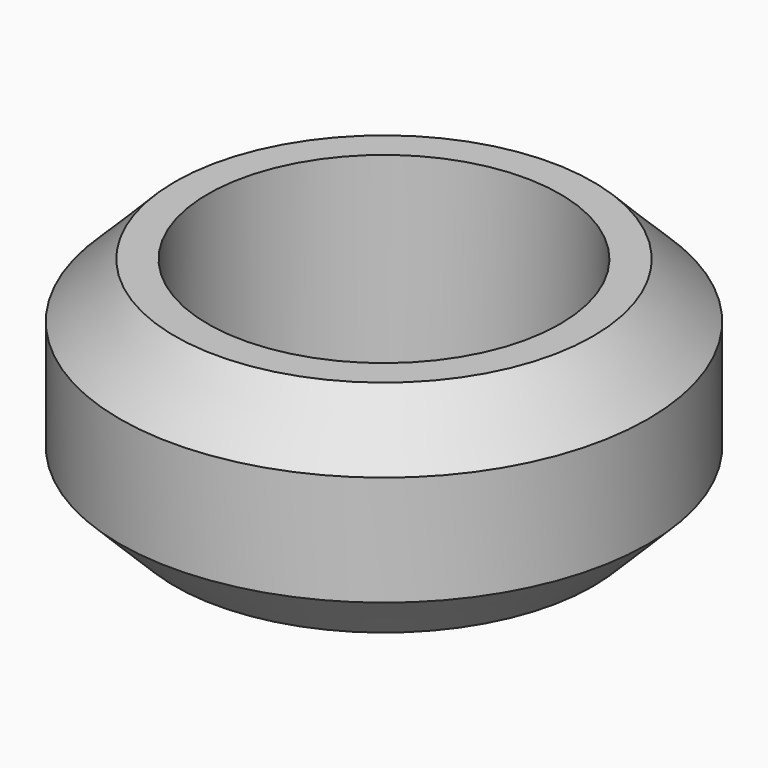
from build123d import *

# Parameters (mm, degrees)
SKETCH_R     = 12
SKETCH_R_2   = 8
PAD_DEPTH    = 10
CHAMFER_SIZE = 2.5


with BuildPart() as part:
    # Sketch → Pad (new body)
    with BuildSketch(Plane.XY):
        Circle(SKETCH_R)
        Circle(SKETCH_R_2, mode=Mode.SUBTRACT)
    extrude(amount=PAD_DEPTH)

    # Chamfer
    chamfer_edges = [part.edges().sort_by_distance(p)[0] for p in [
        (-12, 0, 10),
        (-12, 0, 0),
    ]]
    chamfer(chamfer_edges, length=CHAMFER_SIZE)


solid = part.part
